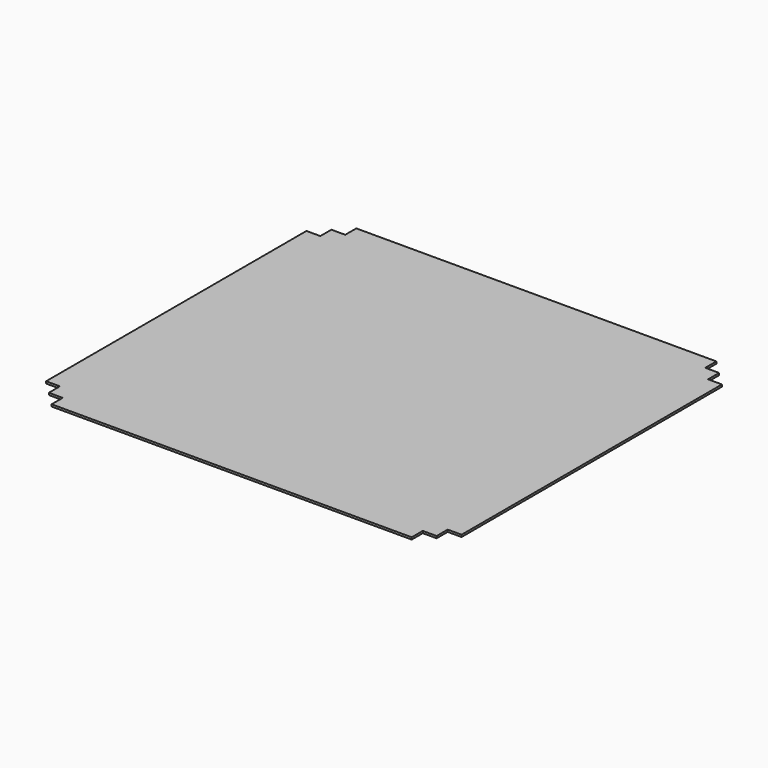
from build123d import *

# Parameters (mm, degrees)
F1_DEPTH = 6


with BuildPart() as f1:
    # F0 (on Top) → F1 (new body)
    with BuildSketch(Plane.XY):
        Polygon((520, 550), (-520, 550), (-520, 510), (-560, 510), (-560, 470), (-600, 470), (-600, -470), (-560, -470), (-560, -510), (-520, -510), (-520, -550), (520, -550), (520, -510), (560, -510), (560, -470), (600, -470), (600, 470), (560, 470), (560, 510), (520, 510), align=None)
    extrude(amount=F1_DEPTH)


solid = f1.part
